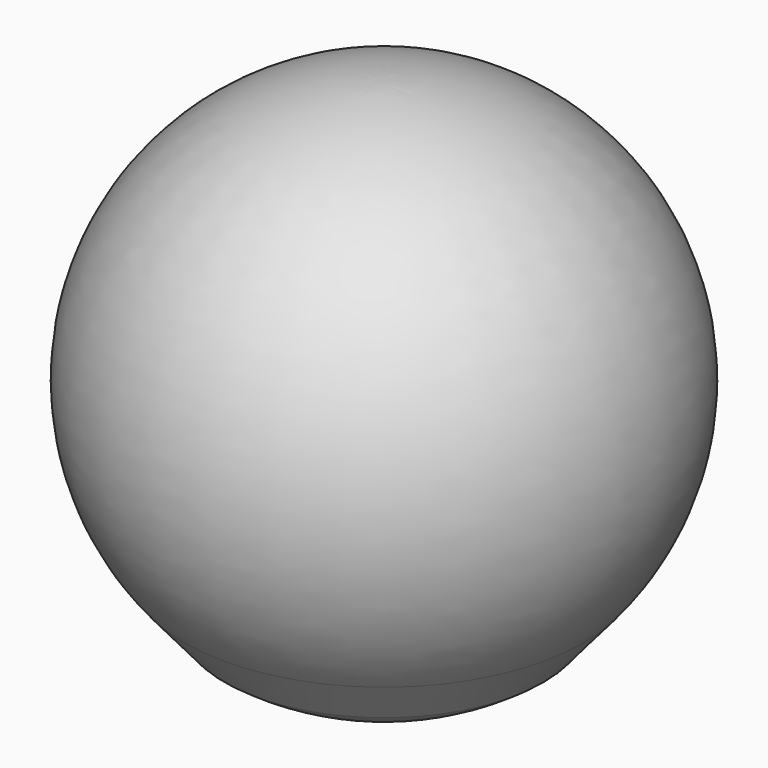
from build123d import *

# Parameters (mm, degrees)
F2_R     = 1.524
F3_DEPTH = 12.7
F4_SIZE  = 1.016
F7_R     = 2.286
F8_DEPTH = 25.4


with BuildPart() as f1:
    # F0 (on Front) → F1 (revolve)
    with BuildSketch(Plane.XZ):
        with BuildLine():
            Line((24.509222, 0), (30.641778, 7.308496))
            ThreePointArc((30.641778, 7.308496), (36.252311, 49.92473), (0, 73.02))
            Line((0, 73.02), (0, 0))
            Line((0, 0), (24.509222, 0))
        make_face()
        with BuildLine():
            ThreePointArc((19.228241, 65.912016), (37.912028, 36.799964), (25.344058, 4.572))
            Line((25.344058, 4.572), (14.812103, 4.572))
            ThreePointArc((14.812103, 4.572), (4.193865, 36.16543), (19.228241, 65.912016))
        make_face(mode=Mode.SUBTRACT)
        with BuildLine():
            Line((14.812103, 4.572), (25.344058, 4.572))
            ThreePointArc((25.344058, 4.572), (37.912028, 36.799964), (19.228241, 65.912016))
            ThreePointArc((19.228241, 65.912016), (4.193865, 36.16543), (14.812103, 4.572))
        make_face()
    revolve(axis=Axis((0, 0, -28.751576), (0, 0, -1)))

    # F2 (on face) → F3 (cut)
    with BuildSketch(Plane(origin=(0, 0, 0), x_dir=(1, 0, 0), z_dir=(0, 0, -1))):
        Circle(F2_R)
    extrude(amount=-F3_DEPTH, mode=Mode.SUBTRACT)

    # F4
    f4_edges = [f1.edges().sort_by_distance(p)[0] for p in [
        (-1.524, 0, 12.7),
    ]]
    chamfer(f4_edges, length=F4_SIZE)


with BuildPart() as f6:
    # F5 (on Front) → F6 (revolve)
    with BuildSketch(Plane.XZ):
        with BuildLine():
            Line((0, -1.016), (0, -8.102042))
            ThreePointArc((0, -8.102042), (12.90683, -6.024028), (24.509222, 0))
            Line((24.509222, 0), (18.159222, 0))
            Line((18.159222, 0), (18.159222, -1.016))
            Line((18.159222, -1.016), (0, -1.016))
        make_face()
    revolve(axis=Axis((0, 0, -28.751576), (0, 0, -1)))

    # F7 (on face) → F8 (cut)
    with BuildSketch(Plane.XY.offset(-1.016)):
        Circle(F7_R)
    extrude(amount=-F8_DEPTH, mode=Mode.SUBTRACT)


solid = Compound([f1.part, f6.part])
